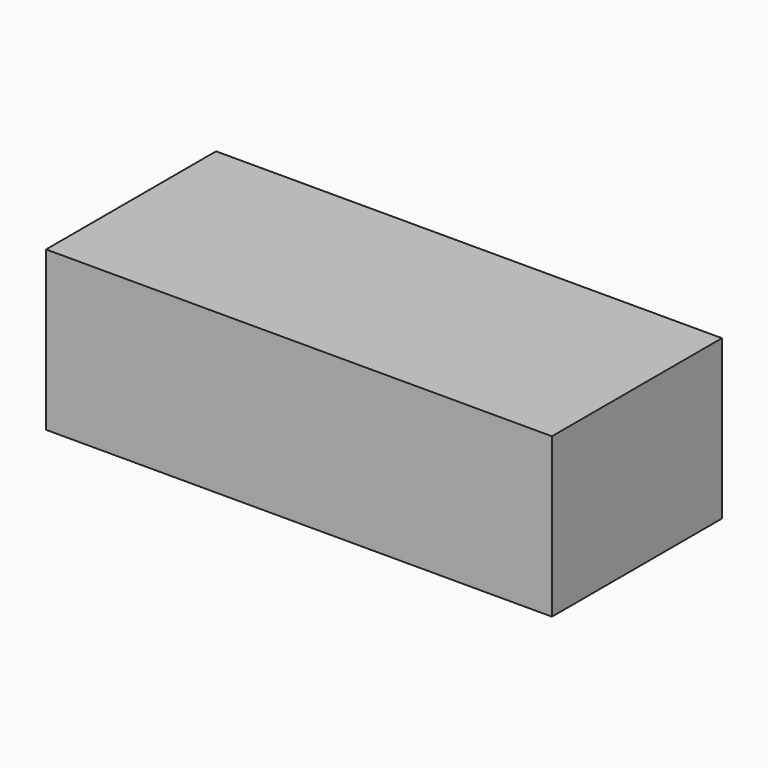
from build123d import *

# Parameters (mm, degrees)
F1_DEPTH = 12.7
F2_W     = 50
F2_H     = 21
F3_DEPTH = 3


with BuildPart() as f1:
    # F0 (on Top) → F1 (new body)
    with BuildSketch(Plane.XY):
        Polygon((0, 3), (0, 0), (50, 0), (50, 21), (0, 21), (0, 18), (47, 18), (47, 3), align=None)
    extrude(amount=F1_DEPTH)

    # F2 (on face) → F3 (join)
    with BuildSketch(Plane.XY.offset(12.7)):
        with Locations((25, 10.5)):
            Rectangle(F2_W, F2_H)
        Polygon((50, 21), (0, 21), (0, 18), (0, 0), (50, 0), align=None)
    extrude(amount=F3_DEPTH)


solid = f1.part
